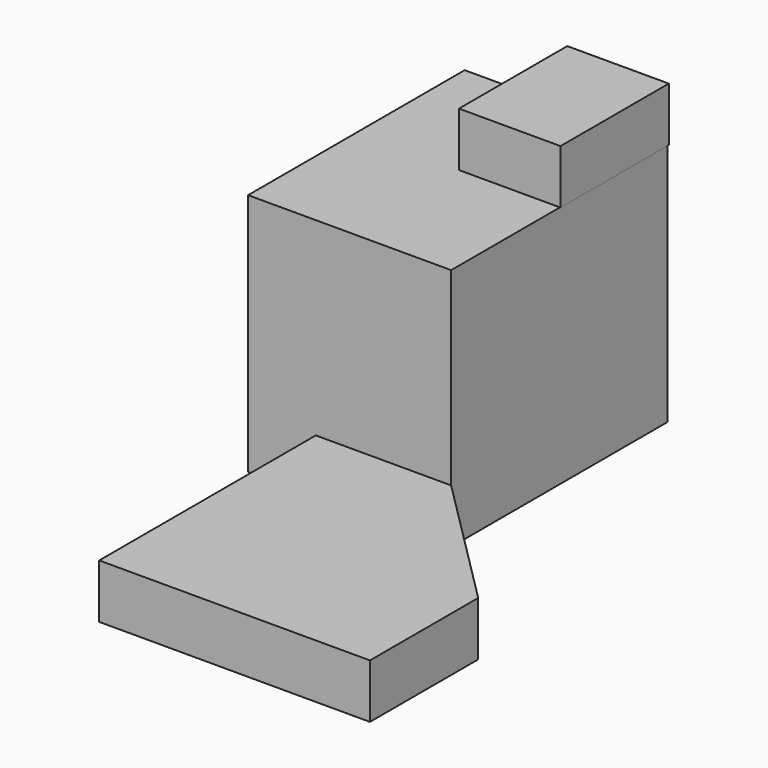
from build123d import *

# Parameters (mm, degrees)
F1_DEPTH = 45.72
F2_DEPTH = 10.16
F4_W     = 19.05
F4_H     = 25.4
F5_DEPTH = 10.16


with BuildPart() as f1:
    # F0 (on Top) → F1 (new body)
    with BuildSketch(Plane.XY):
        Polygon((-6.338918, 25.4), (-44.438918, 25.4), (-44.438918, -25.4), (-31.738918, -25.4), (-6.338918, -25.4), align=None)
    extrude(amount=F1_DEPTH)

    # F0 (on Top) → F2 (join)
    with BuildSketch(Plane.XY):
        Polygon((19.061082, -50.8), (-6.338918, -25.4), (-31.738918, -25.4), (-31.738918, -76.2), (19.061082, -76.2), align=None)
    extrude(amount=F2_DEPTH)

    # F4 (on offset) → F5 (join)
    with BuildSketch(Plane.XY.offset(45.72)):
        with Locations((-15.755231, 12.81299)):
            Rectangle(F4_W, F4_H)
    extrude(amount=F5_DEPTH)


solid = f1.part
